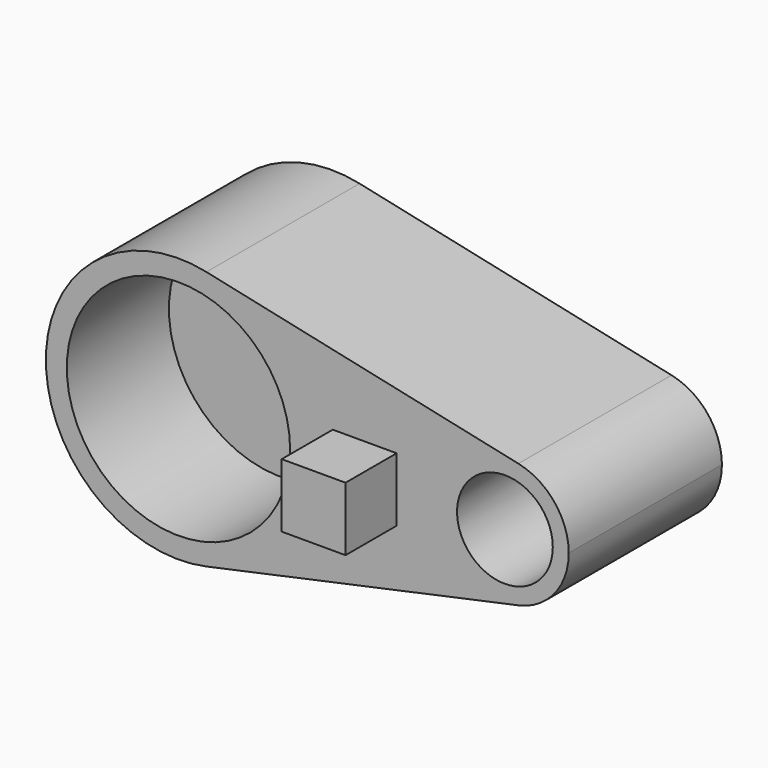
from build123d import *

# Parameters (mm, degrees)
F1_DEPTH = 76.2
F2_R     = 44.45
F3_DEPTH = 50.8
F4_R     = 19.05
F5_DEPTH = 50.8
F6_W     = 25.4
F6_H     = 25.4
F7_DEPTH = 25.4


with BuildPart() as f1:
    # F0 (on Front) → F1 (new body)
    with BuildSketch(Plane.XZ):
        with BuildLine():
            ThreePointArc((-49.307566, -51.592763), (-19.365586, -33.155036), (-7.651684, 0))
            ThreePointArc((-7.651684, 0), (-19.365586, 33.155036), (-49.307566, 51.592763))
            ThreePointArc((-49.307566, 51.592763), (-113.207623, 0), (-49.307566, -51.592763))
        make_face()
        with BuildLine():
            ThreePointArc((-49.307566, 51.592763), (-19.365586, 33.155036), (-7.651684, 0))
            ThreePointArc((-7.651684, 0), (-19.365586, -33.155036), (-49.307566, -51.592763))
            Line((-49.307566, -51.592763), (74.840464, -24.829606))
            ThreePointArc((74.840464, -24.829606), (44.087832, 0), (74.840464, 24.829606))
            Line((74.840464, 24.829606), (-49.307566, 51.592763))
        make_face()
        with BuildLine():
            ThreePointArc((94.887832, 0), (89.250383, 15.95624), (74.840464, 24.829606))
            ThreePointArc((74.840464, 24.829606), (44.087832, 0), (74.840464, -24.829606))
            ThreePointArc((74.840464, -24.829606), (89.250383, -15.95624), (94.887832, 0))
        make_face()
    extrude(amount=F1_DEPTH)

    # F2 (on face) → F3 (cut)
    with BuildSketch(Plane.XZ.offset(76.2)):
        with Locations((-60.429654, 0)):
            Circle(F2_R)
    extrude(amount=-F3_DEPTH, mode=Mode.SUBTRACT)

    # F4 (on face) → F5 (cut)
    with BuildSketch(Plane.XZ.offset(76.2)):
        with Locations((69.487832, 0)):
            Circle(F4_R)
    extrude(amount=-F5_DEPTH, mode=Mode.SUBTRACT)

    # F6 (on face) → F7 (join)
    with BuildSketch(Plane.XZ.offset(76.2)):
        with Locations((13.679137, 0)):
            Rectangle(F6_W, F6_H)
    extrude(amount=F7_DEPTH)


solid = f1.part
